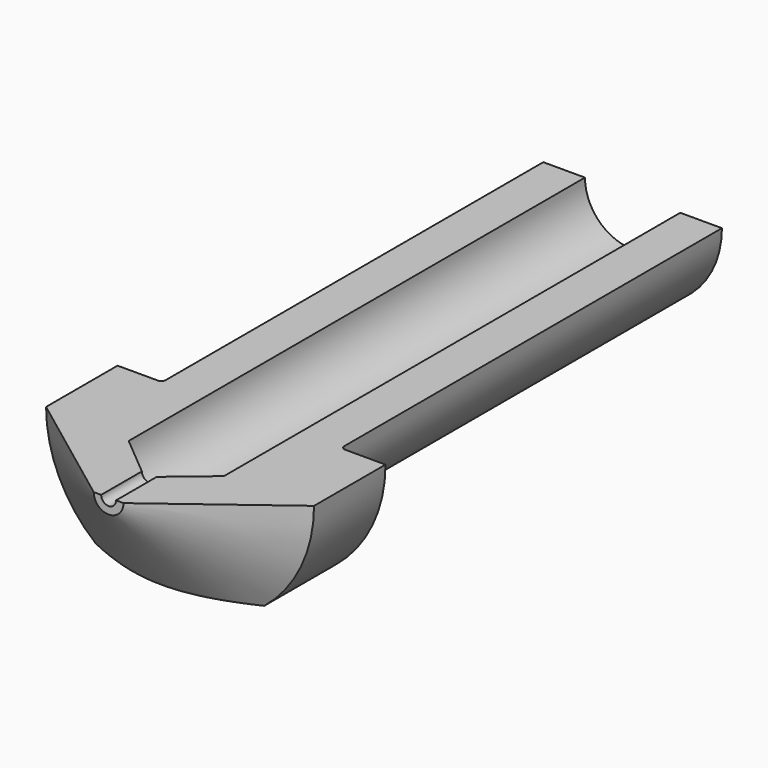
from build123d import *

# Parameters (mm, degrees)
SKETCH001_R     = 0.25
POCKET_DEPTH    = 5
SKETCH002_W     = 10
SKETCH002_H     = 2.096101
SKETCH002_H_2   = 2.304512
POCKET001_DEPTH = 22.001
FILLET_R        = 0.15
SKETCH003_W     = 19.0642
SKETCH003_H     = 4.780193
POCKET002_DEPTH = 22.001


with BuildPart() as part:
    # Sketch → Revolution (revolve)
    with BuildSketch(Plane.XY):
        Polygon((0, 0), (0.5, 0), (4.5, 3), (4.5, 6), (3, 6), (3, 22), (1.6, 22), (1.6, 2.842559), (0, 1.5), align=None)
    revolve(axis=Axis((0, 0, 0), (0, 1, 0)))

    # Sketch001 → Pocket (cut)
    with BuildSketch(Plane.XZ):
        Circle(SKETCH001_R)
    extrude(amount=-POCKET_DEPTH, mode=Mode.SUBTRACT)

    # Sketch002 → Pocket001 (cut, through all)
    with BuildSketch(Plane.XZ):
        with Locations((-0.418938, 4.548051)):
            Rectangle(SKETCH002_W, SKETCH002_H)
        with Locations((-0.456429, -4.652256)):
            Rectangle(SKETCH002_W, SKETCH002_H_2)
    extrude(amount=-POCKET001_DEPTH, mode=Mode.SUBTRACT)

    # Fillet
    fillet_edges = [part.edges().sort_by_distance(p)[0] for p in [
        (-3, 6, 0),
    ]]
    fillet(fillet_edges, radius=FILLET_R)

    # Sketch003 → Pocket002 (cut, through all)
    with BuildSketch(Plane(origin=(0, 22, 0), x_dir=(-1, 0, 0), z_dir=(0, 1, 0))):
        with Locations((-0.864449, 2.390096)):
            Rectangle(SKETCH003_W, SKETCH003_H)
    extrude(amount=-POCKET002_DEPTH, mode=Mode.SUBTRACT)


solid = part.part
